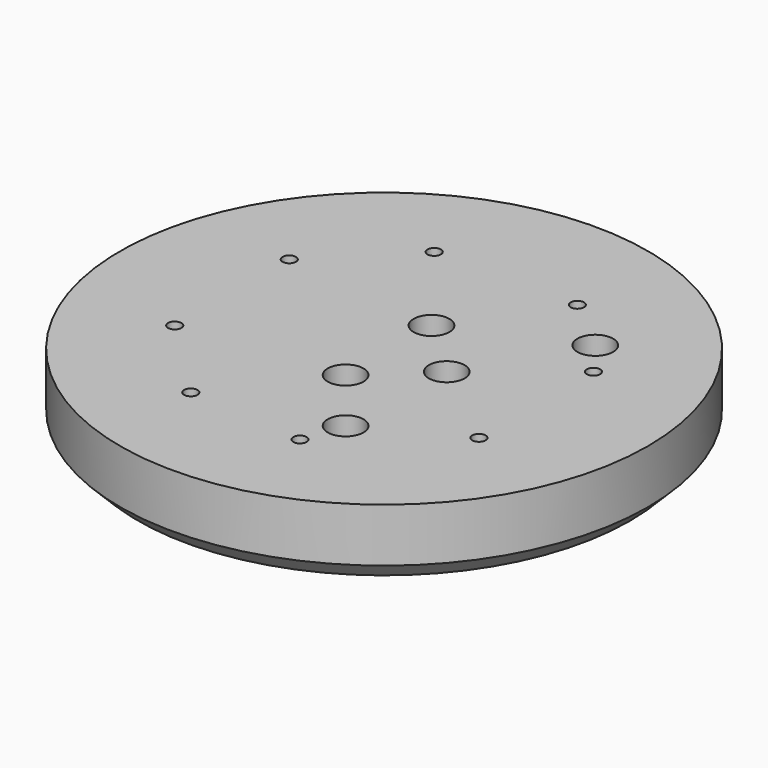
from build123d import *

# Parameters (mm, degrees)
CYLINDER1318_R     = 4
CYLINDER1318_DEPTH = 100
CYLINDER1317_R     = 4
CYLINDER1317_DEPTH = 100
CYLINDER1295_R     = 1.5
CYLINDER1295_DEPTH = 100
CYLINDER1296_R     = 1.5
CYLINDER1296_DEPTH = 100
CYLINDER1297_R     = 1.5
CYLINDER1297_DEPTH = 100
CYLINDER1298_R     = 1.5
CYLINDER1298_DEPTH = 100
CYLINDER1299_R     = 1.5
CYLINDER1299_DEPTH = 100
CYLINDER1300_R     = 1.5
CYLINDER1300_DEPTH = 100
CYLINDER1301_R     = 1.5
CYLINDER1301_DEPTH = 100
CYLINDER1294_R     = 1.5
CYLINDER1294_DEPTH = 100
CYLINDER1321_R     = 4
CYLINDER1321_DEPTH = 100
CYLINDER1319_R     = 4
CYLINDER1319_DEPTH = 100
CYLINDER1322_R     = 4
CYLINDER1322_DEPTH = 100
CYLINDER1323_R     = 4
CYLINDER1323_DEPTH = 100
CYLINDER1324_R     = 4
CYLINDER1324_DEPTH = 100
CYLINDER1325_R     = 4
CYLINDER1325_DEPTH = 100
CYLINDER1326_R     = 4
CYLINDER1326_DEPTH = 100
CYLINDER1320_R     = 4
CYLINDER1320_DEPTH = 100
CYLINDER1310_R     = 4
CYLINDER1310_DEPTH = 20
CYLINDER1311_R     = 4
CYLINDER1311_DEPTH = 20
CYLINDER1312_R     = 4
CYLINDER1312_DEPTH = 20
CYLINDER1313_R     = 4
CYLINDER1313_DEPTH = 40
CYLINDER1314_R     = 4
CYLINDER1314_DEPTH = 40
CYLINDER1315_R     = 4
CYLINDER1315_DEPTH = 40
CYLINDER1316_R     = 4
CYLINDER1316_DEPTH = 40
CYLINDER1309_R     = 4
CYLINDER1309_DEPTH = 20
CYLINDER1308_R     = 59
CYLINDER1308_DEPTH = 16
CHAMFER038_SIZE    = 4


with BuildPart() as obj1:
    # Cylinder1318 → Cylinder1318 (new body)
    with BuildSketch(Plane(origin=(14, 0, -18), x_dir=(1, 0, 0), z_dir=(0, 0, 1))):
        Circle(CYLINDER1318_R)
    extrude(amount=CYLINDER1318_DEPTH)


with BuildPart() as obj2:
    # Cylinder1317 → Cylinder1317 (new body)
    with BuildSketch(Plane(origin=(90, 0, -18), x_dir=(1, 0, 0), z_dir=(0, 0, 1))):
        Circle(CYLINDER1317_R)
    extrude(amount=CYLINDER1317_DEPTH)

    # Compound674: union obj1
    add(obj1.part)


with BuildPart() as obj3:
    # Cylinder1295 → Cylinder1295 (new body)
    with BuildSketch(Plane(origin=(-34, -16, -60), x_dir=(1, 0, 0), z_dir=(0, 0, 1))):
        Circle(CYLINDER1295_R)
    extrude(amount=CYLINDER1295_DEPTH)


with BuildPart() as obj4:
    # Cylinder1296 → Cylinder1296 (new body)
    with BuildSketch(Plane(origin=(34, -16, -60), x_dir=(1, 0, 0), z_dir=(0, 0, 1))):
        Circle(CYLINDER1296_R)
    extrude(amount=CYLINDER1296_DEPTH)


with BuildPart() as obj5:
    # Cylinder1297 → Cylinder1297 (new body)
    with BuildSketch(Plane(origin=(34, 16, -60), x_dir=(1, 0, 0), z_dir=(0, 0, 1))):
        Circle(CYLINDER1297_R)
    extrude(amount=CYLINDER1297_DEPTH)


with BuildPart() as obj6:
    # Cylinder1298 → Cylinder1298 (new body)
    with BuildSketch(Plane(origin=(16, 34, -60), x_dir=(1, 0, 0), z_dir=(0, 0, 1))):
        Circle(CYLINDER1298_R)
    extrude(amount=CYLINDER1298_DEPTH)


with BuildPart() as obj7:
    # Cylinder1299 → Cylinder1299 (new body)
    with BuildSketch(Plane(origin=(10, -36, -60), x_dir=(1, 0, 0), z_dir=(0, 0, 1))):
        Circle(CYLINDER1299_R)
    extrude(amount=CYLINDER1299_DEPTH)


with BuildPart() as obj8:
    # Cylinder1300 → Cylinder1300 (new body)
    with BuildSketch(Plane(origin=(-16, -34, -60), x_dir=(1, 0, 0), z_dir=(0, 0, 1))):
        Circle(CYLINDER1300_R)
    extrude(amount=CYLINDER1300_DEPTH)


with BuildPart() as obj9:
    # Cylinder1301 → Cylinder1301 (new body)
    with BuildSketch(Plane(origin=(-16, 34, -60), x_dir=(1, 0, 0), z_dir=(0, 0, 1))):
        Circle(CYLINDER1301_R)
    extrude(amount=CYLINDER1301_DEPTH)


with BuildPart() as obj10:
    # Cylinder1294 → Cylinder1294 (new body)
    with BuildSketch(Plane(origin=(-34, 16, -60), x_dir=(1, 0, 0), z_dir=(0, 0, 1))):
        Circle(CYLINDER1294_R)
    extrude(amount=CYLINDER1294_DEPTH)

    # Compound671: union obj3, obj4, obj5, obj6, obj7, obj8, obj9
    add(obj3.part)
    add(obj4.part)
    add(obj5.part)
    add(obj6.part)
    add(obj7.part)
    add(obj8.part)
    add(obj9.part)


with BuildPart() as obj11:
    # Cylinder1321 → Cylinder1321 (new body)
    with BuildSketch(Plane(origin=(-16, 34, -90), x_dir=(1, 0, 0), z_dir=(0, 0, 1))):
        Circle(CYLINDER1321_R)
    extrude(amount=CYLINDER1321_DEPTH)


with BuildPart() as obj12:
    # Cylinder1319 → Cylinder1319 (new body)
    with BuildSketch(Plane(origin=(-16, -34, -90), x_dir=(1, 0, 0), z_dir=(0, 0, 1))):
        Circle(CYLINDER1319_R)
    extrude(amount=CYLINDER1319_DEPTH)


with BuildPart() as obj13:
    # Cylinder1322 → Cylinder1322 (new body)
    with BuildSketch(Plane(origin=(34, -16, -90), x_dir=(1, 0, 0), z_dir=(0, 0, 1))):
        Circle(CYLINDER1322_R)
    extrude(amount=CYLINDER1322_DEPTH)


with BuildPart() as obj14:
    # Cylinder1323 → Cylinder1323 (new body)
    with BuildSketch(Plane(origin=(16, 34, -90), x_dir=(1, 0, 0), z_dir=(0, 0, 1))):
        Circle(CYLINDER1323_R)
    extrude(amount=CYLINDER1323_DEPTH)


with BuildPart() as obj15:
    # Cylinder1324 → Cylinder1324 (new body)
    with BuildSketch(Plane(origin=(10, -36, -90), x_dir=(1, 0, 0), z_dir=(0, 0, 1))):
        Circle(CYLINDER1324_R)
    extrude(amount=CYLINDER1324_DEPTH)


with BuildPart() as obj16:
    # Cylinder1325 → Cylinder1325 (new body)
    with BuildSketch(Plane(origin=(-34, 16, -90), x_dir=(1, 0, 0), z_dir=(0, 0, 1))):
        Circle(CYLINDER1325_R)
    extrude(amount=CYLINDER1325_DEPTH)


with BuildPart() as obj17:
    # Cylinder1326 → Cylinder1326 (new body)
    with BuildSketch(Plane(origin=(34, 16, -90), x_dir=(1, 0, 0), z_dir=(0, 0, 1))):
        Circle(CYLINDER1326_R)
    extrude(amount=CYLINDER1326_DEPTH)


with BuildPart() as obj18:
    # Cylinder1320 → Cylinder1320 (new body)
    with BuildSketch(Plane(origin=(-34, -16, -90), x_dir=(1, 0, 0), z_dir=(0, 0, 1))):
        Circle(CYLINDER1320_R)
    extrude(amount=CYLINDER1320_DEPTH)

    # Compound673: union obj11, obj12, obj13, obj14, obj15, obj16, obj17
    add(obj11.part)
    add(obj12.part)
    add(obj13.part)
    add(obj14.part)
    add(obj15.part)
    add(obj16.part)
    add(obj17.part)


with BuildPart() as obj19:
    # Cylinder1310 → Cylinder1310 (new body)
    with BuildSketch(Plane(origin=(103, 12, -20), x_dir=(1, 0, 0), z_dir=(0, 0, 1))):
        Circle(CYLINDER1310_R)
    extrude(amount=CYLINDER1310_DEPTH)


with BuildPart() as obj20:
    # Cylinder1311 → Cylinder1311 (new body)
    with BuildSketch(Plane(origin=(76, 24, -18), x_dir=(1, 0, 0), z_dir=(0, 0, 1))):
        Circle(CYLINDER1311_R)
    extrude(amount=CYLINDER1311_DEPTH)


with BuildPart() as obj21:
    # Cylinder1312 → Cylinder1312 (new body)
    with BuildSketch(Plane(origin=(91, -27, -18), x_dir=(1, 0, 0), z_dir=(0, 0, 1))):
        Circle(CYLINDER1312_R)
    extrude(amount=CYLINDER1312_DEPTH)


with BuildPart() as obj22:
    # Cylinder1313 → Cylinder1313 (new body)
    with BuildSketch(Plane(origin=(13, -27, -18), x_dir=(1, 0, 0), z_dir=(0, 0, 1))):
        Circle(CYLINDER1313_R)
    extrude(amount=CYLINDER1313_DEPTH)


with BuildPart() as obj23:
    # Cylinder1314 → Cylinder1314 (new body)
    with BuildSketch(Plane(origin=(28, 24, -18), x_dir=(1, 0, 0), z_dir=(0, 0, 1))):
        Circle(CYLINDER1314_R)
    extrude(amount=CYLINDER1314_DEPTH)


with BuildPart() as obj24:
    # Cylinder1315 → Cylinder1315 (new body)
    with BuildSketch(Plane(origin=(1, -12, -18), x_dir=(1, 0, 0), z_dir=(0, 0, 1))):
        Circle(CYLINDER1315_R)
    extrude(amount=CYLINDER1315_DEPTH)


with BuildPart() as obj25:
    # Cylinder1316 → Cylinder1316 (new body)
    with BuildSketch(Plane(origin=(1, 12, -18), x_dir=(1, 0, 0), z_dir=(0, 0, 1))):
        Circle(CYLINDER1316_R)
    extrude(amount=CYLINDER1316_DEPTH)


with BuildPart() as obj26:
    # Cylinder1309 → Cylinder1309 (new body)
    with BuildSketch(Plane(origin=(103, -12, -20), x_dir=(1, 0, 0), z_dir=(0, 0, 1))):
        Circle(CYLINDER1309_R)
    extrude(amount=CYLINDER1309_DEPTH)

    # Compound672: union obj19, obj20, obj21, obj22, obj23, obj24, obj25
    add(obj19.part)
    add(obj20.part)
    add(obj21.part)
    add(obj22.part)
    add(obj23.part)
    add(obj24.part)
    add(obj25.part)


with BuildPart() as cut308:
    # Cylinder1308 → Cylinder1308 (new body)
    with BuildSketch(Plane.XY.offset(2)):
        Circle(CYLINDER1308_R)
    extrude(amount=CYLINDER1308_DEPTH)

    # Cut305: cut obj26
    add(obj26.part, mode=Mode.SUBTRACT)

    # Cut306: cut obj18
    add(obj18.part, mode=Mode.SUBTRACT)

    # Cut307: cut obj10
    add(obj10.part, mode=Mode.SUBTRACT)

    # Chamfer038
    chamfer038_edges = [cut308.edges().sort_by_distance(p)[0] for p in [
        (-59, 0, 2),
    ]]
    chamfer(chamfer038_edges, length=CHAMFER038_SIZE)

    # Cut308: cut obj2
    add(obj2.part, mode=Mode.SUBTRACT)


with BuildPart() as cut308_1:
    # Cut308 placement: moved
    add(cut308.part.moved(Location((0, 0, 4))))


solid = cut308_1.part
